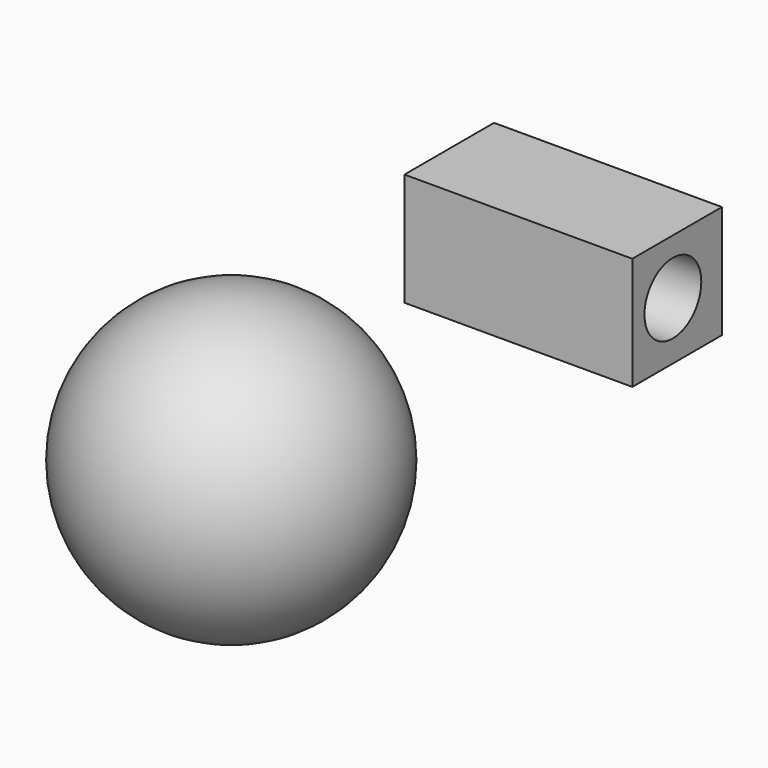
from build123d import *

# Parameters (mm, degrees)
F2_W     = 23.999124
F2_H     = 24.179563
F3_DEPTH = 48.830509
F4_R     = 7.611722
F5_DEPTH = 71.608588


with BuildPart() as f1:
    # F0 (on Right) → F1 (revolve)
    with BuildSketch(Plane.YZ):
        with BuildLine():
            Line((0, -30.984461), (0, 30.984461))
            ThreePointArc((0, 30.984461), (-30.984461, 0), (0, -30.984461))
        make_face()
    revolve(axis=Axis((0, 0, 3.87954), (0, 0, -1)))


with BuildPart() as f3:
    # F2 (on Right) → F3 (new body)
    with BuildSketch(Plane.YZ):
        with Locations((58.373794, 22.916428)):
            Rectangle(F2_W, F2_H)
    extrude(amount=F3_DEPTH)

    # F4 (on face) → F5 (cut)
    with BuildSketch(Plane.YZ.offset(48.830509)):
        with Locations((57.236664, 23.166679)):
            Circle(F4_R)
    extrude(amount=-F5_DEPTH, mode=Mode.SUBTRACT)


solid = Compound([f1.part, f3.part])
